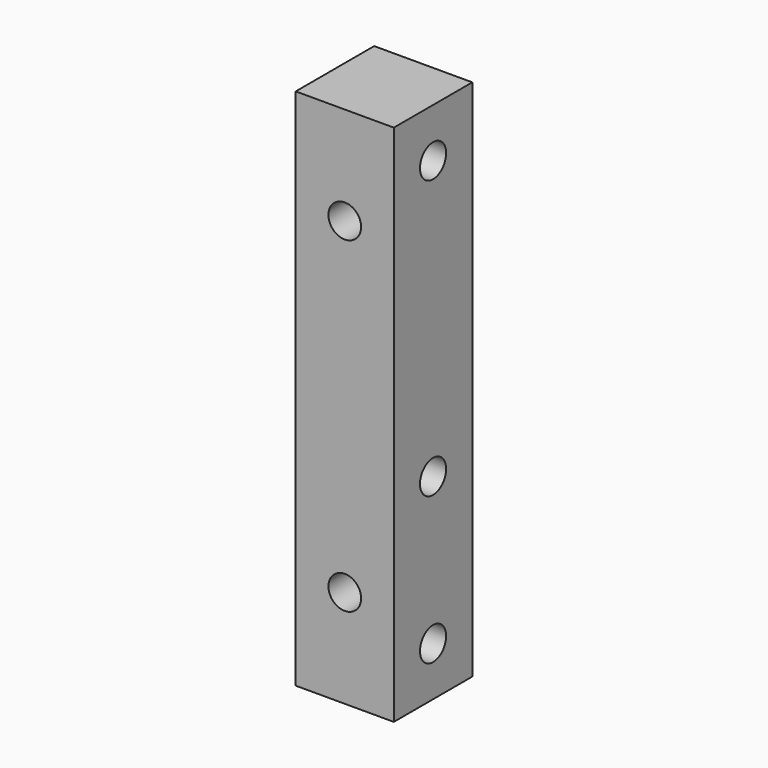
from build123d import *

# Parameters (mm, degrees)
F0_W     = 19.05
F0_H     = 101.6
F1_DEPTH = 9.525
F3_D     = 6.35
F5_D     = 6.35
F7_D     = 6.35


with BuildPart() as f1:
    # F0 (on Right) → F1 (new body, symmetric)
    with BuildSketch(Plane.YZ):
        Rectangle(F0_W, F0_H)
    extrude(amount=F1_DEPTH, both=True)

    # F3 (through all)
    with Locations(Plane.XZ.offset(9.525)):
        with Locations((0, 31.75), (0, -31.75)):
            Hole(F3_D / 2)

    # F5 (through all)
    with Locations(Plane.YZ.offset(9.525)):
        with Locations((0, 41.275), (0, -41.275)):
            Hole(F5_D / 2)

    # F7 (through all)
    with Locations(Plane.YZ.offset(9.525)):
        with Locations((0, -12.7)):
            Hole(F7_D / 2)


solid = f1.part
